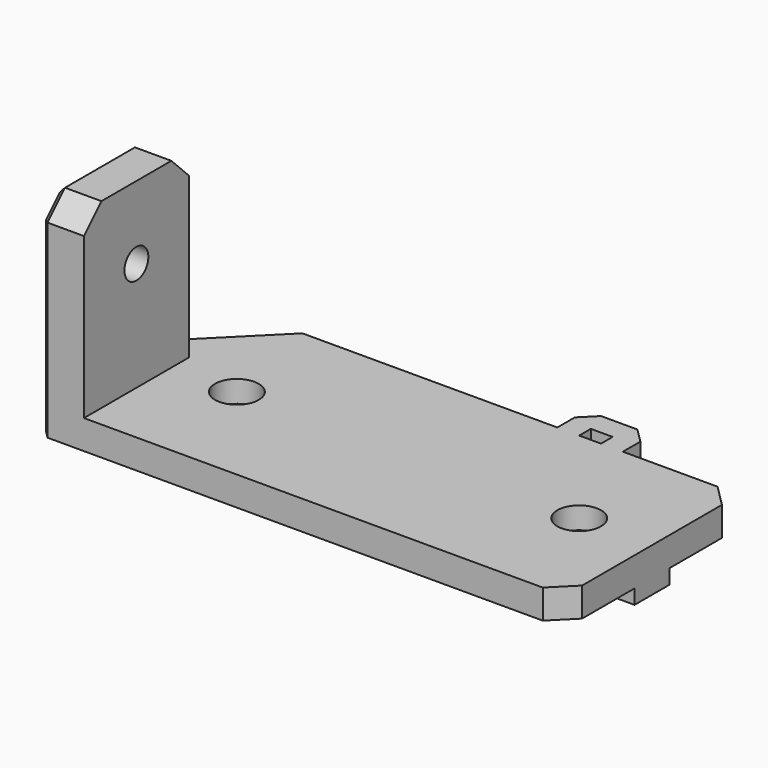
from build123d import *

# Parameters (mm, degrees)
CYLINDER003_R     = 3
CYLINDER003_DEPTH = 3
CYLINDER004_R     = 3
CYLINDER004_DEPTH = 3
CYLINDER001_R     = 1.65
CYLINDER001_DEPTH = 10
CYLINDER002_R     = 1.65
CYLINDER002_DEPTH = 10
BOX001_W          = 72
BOX001_H          = 30
BOX001_DEPTH      = 4
CHAMFER_SIZE      = 12
CHAMFER001_SIZE   = 3
BOX002_W          = 72
BOX002_H          = 6
BOX002_DEPTH      = 2
CHAMFER004_SIZE   = 1
BOX004_W          = 3
BOX004_H          = 2
BOX004_DEPTH      = 3
BOX003_W          = 9
BOX003_H          = 5
BOX003_DEPTH      = 3
CHAMFER005_SIZE   = 2
CYLINDER_R        = 2.05
CYLINDER_DEPTH    = 10
BOX_W             = 6
BOX_H             = 18
BOX_DEPTH         = 25
CHAMFER002_SIZE   = 3
CHAMFER006_SIZE   = 1


with BuildPart() as cylinder003:
    # Cylinder003 → Cylinder003 (new body)
    with BuildSketch(Plane(origin=(62, 15, -5), x_dir=(1, 0, 0), z_dir=(0, 0, 1))):
        Circle(CYLINDER003_R)
    extrude(amount=CYLINDER003_DEPTH)


with BuildPart() as fusion002:
    # Cylinder004 → Cylinder004 (new body)
    with BuildSketch(Plane(origin=(15, 15, -5), x_dir=(1, 0, 0), z_dir=(0, 0, 1))):
        Circle(CYLINDER004_R)
    extrude(amount=CYLINDER004_DEPTH)

    # Fusion002: union Cylinder003
    add(cylinder003.part)


with BuildPart() as fusion002_1:
    # Fusion002 placement: moved
    add(fusion002.part.moved(Location((0, 0, 6))))


with BuildPart() as cylinder001:
    # Cylinder001 → Cylinder001 (new body)
    with BuildSketch(Plane(origin=(15, 15, -5), x_dir=(1, 0, 0), z_dir=(0, 0, 1))):
        Circle(CYLINDER001_R)
    extrude(amount=CYLINDER001_DEPTH)


with BuildPart() as fusion001:
    # Cylinder002 → Cylinder002 (new body)
    with BuildSketch(Plane(origin=(62, 15, -5), x_dir=(1, 0, 0), z_dir=(0, 0, 1))):
        Circle(CYLINDER002_R)
    extrude(amount=CYLINDER002_DEPTH)

    # Fusion001: union Cylinder001
    add(cylinder001.part)


with BuildPart() as chamfer001:
    # Box001 → Box001 (new body)
    with BuildSketch(Plane.XY):
        with Locations((36, 15)):
            Rectangle(BOX001_W, BOX001_H)
    extrude(amount=BOX001_DEPTH)

    # Chamfer
    chamfer_edges = [chamfer001.edges().sort_by_distance(p)[0] for p in [
        (0, 30, 2),
    ]]
    chamfer(chamfer_edges, length=CHAMFER_SIZE)

    # Chamfer001
    chamfer001_edges = [chamfer001.edges().sort_by_distance(p)[0] for p in [
        (72, 0, 2),
        (72, 30, 2),
    ]]
    chamfer(chamfer001_edges, length=CHAMFER001_SIZE)


with BuildPart() as chamfer004:
    # Box002 → Box002 (new body)
    with BuildSketch(Plane(origin=(0, 12, -2), x_dir=(1, 0, 0), z_dir=(0, 0, 1))):
        with Locations((36, 3)):
            Rectangle(BOX002_W, BOX002_H)
    extrude(amount=BOX002_DEPTH)

    # Fusion: union Chamfer001
    add(chamfer001.part)

    # Cut001: cut Fusion001
    add(fusion001.part, mode=Mode.SUBTRACT)

    # Cut002: cut Fusion002
    add(fusion002_1.part, mode=Mode.SUBTRACT)

    # Chamfer004
    chamfer004_edges = [chamfer004.edges().sort_by_distance(p)[0] for p in [
        (0, 0, 2),
    ]]
    chamfer(chamfer004_edges, length=CHAMFER004_SIZE)


with BuildPart() as cube004:
    # Box004 → Box004 (new body)
    with BuildSketch(Plane(origin=(75, 30, 0), x_dir=(1, 0, 0), z_dir=(0, 0, 1))):
        with Locations((1.5, 1)):
            Rectangle(BOX004_W, BOX004_H)
    extrude(amount=BOX004_DEPTH)


with BuildPart() as chamfer005:
    # Box003 → Box003 (new body)
    with BuildSketch(Plane(origin=(72, 30, 0), x_dir=(1, 0, 0), z_dir=(0, 0, 1))):
        with Locations((4.5, 2.5)):
            Rectangle(BOX003_W, BOX003_H)
    extrude(amount=BOX003_DEPTH)

    # Cut003: cut Cube004
    add(cube004.part, mode=Mode.SUBTRACT)


with BuildPart() as chamfer005_1:
    # Cut003 placement: moved
    add(chamfer005.part.moved(Location((-25, 0, 1))))

    # Chamfer005
    chamfer005_edges = [chamfer005_1.edges().sort_by_distance(p)[0] for p in [
        (47, 35, 2.5),
        (56, 35, 2.5),
    ]]
    chamfer(chamfer005_edges, length=CHAMFER005_SIZE)


with BuildPart() as cylinder:
    # Cylinder → Cylinder (new body)
    with BuildSketch(Plane(origin=(8, 9, 19), x_dir=(0, 0, 1), z_dir=(-1, 0, 0))):
        Circle(CYLINDER_R)
    extrude(amount=CYLINDER_DEPTH)


with BuildPart() as fusion003:
    # Box → Box (new body)
    with BuildSketch(Plane.XY.offset(4)):
        with Locations((3, 9)):
            Rectangle(BOX_W, BOX_H)
    extrude(amount=BOX_DEPTH)

    # Chamfer002
    chamfer002_edges = [fusion003.edges().sort_by_distance(p)[0] for p in [
        (3, 0, 29),
        (3, 18, 29),
    ]]
    chamfer(chamfer002_edges, length=CHAMFER002_SIZE)

    # Cut: cut Cylinder
    add(cylinder.part, mode=Mode.SUBTRACT)

    # Chamfer006
    chamfer006_edges = [fusion003.edges().sort_by_distance(p)[0] for p in [
        (0, 0, 15),
        (0, 1.5, 27.5),
        (0, 9, 29),
        (0, 18, 15),
        (0, 16.5, 27.5),
    ]]
    chamfer(chamfer006_edges, length=CHAMFER006_SIZE)

    # Fusion003: union Chamfer004, Chamfer005
    add(chamfer004.part)
    add(chamfer005_1.part)


solid = fusion003.part
